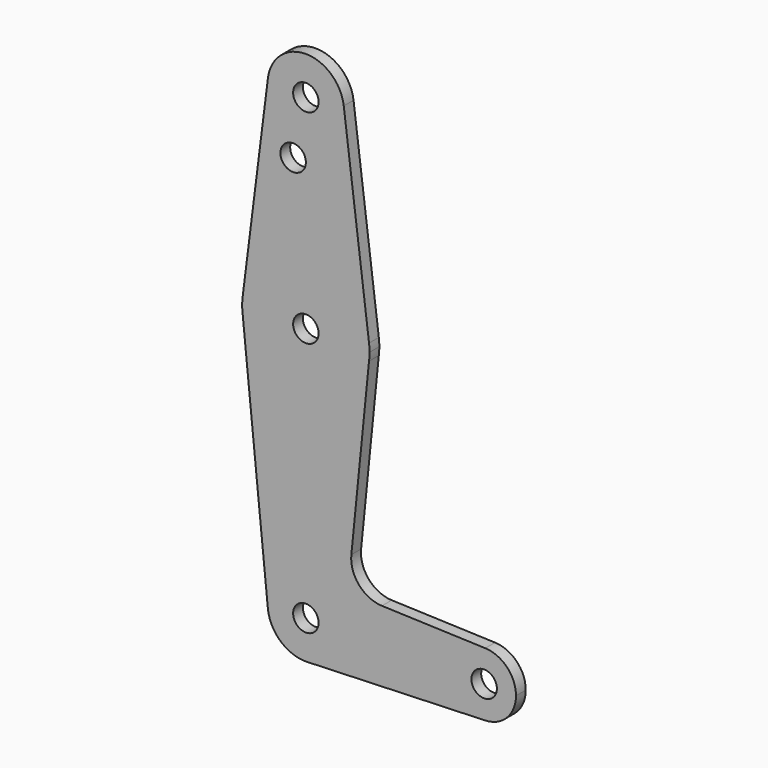
from build123d import *

# Parameters (mm, degrees)
F0_R     = 3.175
F1_DEPTH = 3.048


with BuildPart() as f1:
    # F0 (on Front) → F1 (new body)
    with BuildSketch(Plane.XZ):
        with BuildLine():
            ThreePointArc((0.340179, -9.518923), (6.854408, -6.613827), (9.525, 0))
            ThreePointArc((9.525, 0), (-0.476467, 9.513075), (-9.477332, -0.951742))
            ThreePointArc((-9.477332, -0.951742), (-6.262671, -7.176669), (0.340179, -9.518923))
        make_face()
        Circle(F0_R, mode=Mode.SUBTRACT)
        with BuildLine():
            ThreePointArc((-9.477332, -0.951742), (-0.476467, 9.513075), (9.525, 0))
            ThreePointArc((9.525, 0), (6.854408, -6.613827), (0.340179, -9.518923))
            Line((0.340179, -9.518923), (44.733482, -7.932436))
            ThreePointArc((44.733482, -7.932436), (36.5125, 0), (44.733482, 7.932436))
            Line((44.733482, 7.932436), (18.966106, 8.853287))
            ThreePointArc((18.966106, 8.853287), (13.259915, 11.571173), (11.339629, 17.592802))
            Line((11.339629, 17.592802), (15.750488, 61.515625))
            ThreePointArc((15.750488, 61.515625), (0, 47.625), (-15.750488, 61.515625))
            Line((-15.750488, 61.515625), (-9.477332, -0.951742))
        make_face()
        with BuildLine():
            ThreePointArc((-15.750488, 65.484375), (-15.875, 63.5), (-15.750488, 61.515625))
            ThreePointArc((-15.750488, 61.515625), (0, 47.625), (15.750488, 61.515625))
            ThreePointArc((15.750488, 61.515625), (15.843841, 62.505861), (15.875, 63.5))
            ThreePointArc((15.875, 63.5), (15.843841, 64.494139), (15.750488, 65.484375))
            ThreePointArc((15.750488, 65.484375), (0, 79.375), (-15.750488, 65.484375))
        make_face()
        with Locations((0, 63.5)):
            Circle(F0_R, mode=Mode.SUBTRACT)
        with BuildLine():
            ThreePointArc((44.733482, 7.932436), (36.5125, 0), (44.733482, -7.932436))
            ThreePointArc((44.733482, -7.932436), (50.162007, -5.511523), (52.3875, 0))
            ThreePointArc((52.3875, 0), (50.162007, 5.511523), (44.733482, 7.932436))
        make_face()
        with Locations((44.45, 0)):
            Circle(F0_R, mode=Mode.SUBTRACT)
        with BuildLine():
            Line((-9.450293, 115.490625), (-15.750488, 65.484375))
            ThreePointArc((-15.750488, 65.484375), (0, 79.375), (15.750488, 65.484375))
            Line((15.750488, 65.484375), (9.450293, 115.490625))
            ThreePointArc((9.450293, 115.490625), (9.506305, 114.896483), (9.525, 114.3))
            ThreePointArc((9.525, 114.3), (-0.596483, 104.793695), (-9.450293, 115.490625))
        make_face()
        with Locations((-3.175, 100.0252)):
            Circle(F0_R, mode=Mode.SUBTRACT)
        with BuildLine():
            ThreePointArc((9.450293, 115.490625), (0, 123.825), (-9.450293, 115.490625))
            ThreePointArc((-9.450293, 115.490625), (-0.596483, 104.793695), (9.525, 114.3))
            ThreePointArc((9.525, 114.3), (9.506305, 114.896483), (9.450293, 115.490625))
        make_face()
        with Locations((0, 114.3)):
            Circle(F0_R, mode=Mode.SUBTRACT)
    extrude(amount=F1_DEPTH)


solid = f1.part
